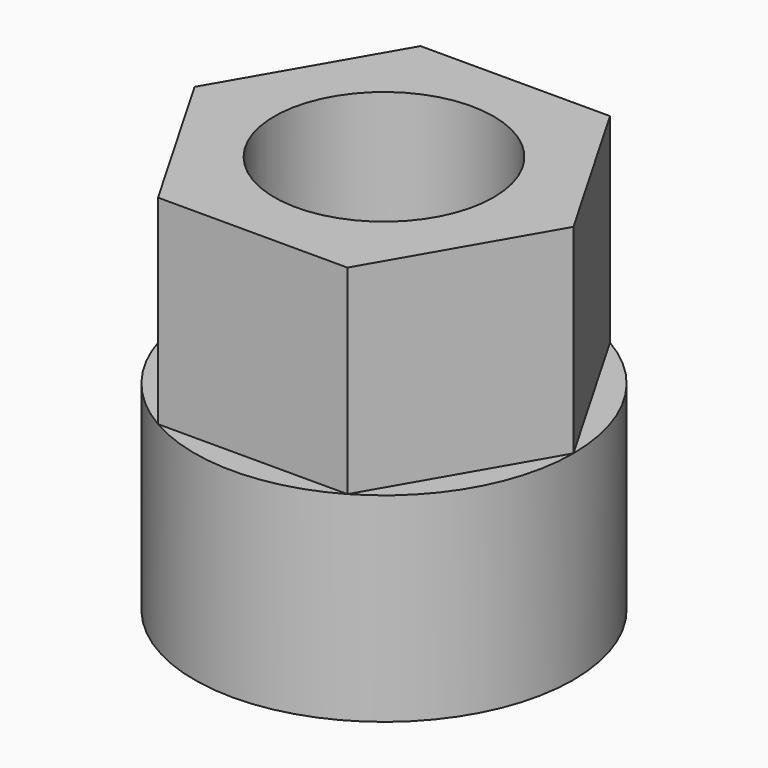
from build123d import *

# Parameters (mm, degrees)
F0_R     = 9.5
F0_R_2   = 0.7
F0_R_3   = 5.5
F1_DEPTH = 10
F2_DEPTH = 5
F3_R     = 0.7
F3_R_2   = 5.5
F4_DEPTH = 6
F5_R     = 0.7
F5_R_2   = 5.5
F6_DEPTH = 4


with BuildPart() as f1:
    # F0 (on Top) → F1 (new body)
    with BuildSketch(Plane.XY):
        Circle(F0_R)
        with Locations((-7.5, 0)):
            Circle(F0_R_2, mode=Mode.SUBTRACT)
        Circle(F0_R_3, mode=Mode.SUBTRACT)
        with Locations((7.5, 0)):
            Circle(F0_R_2, mode=Mode.SUBTRACT)
    extrude(amount=F1_DEPTH)

    # F0 (on Top) → F2 (cut)
    with BuildSketch(Plane.XY):
        Circle(F0_R_3)
    extrude(amount=F2_DEPTH, mode=Mode.SUBTRACT)

    # F3 (on face) → F4 (join)
    with BuildSketch(Plane.XY.offset(10)):
        Polygon((4.75, -8.227241336), (9.5, 0), (4.75, 8.227241336), (-4.75, 8.227241336), (-9.5, 0), (-4.75, -8.227241336), align=None)
        with Locations((-7.5, 0)):
            Circle(F3_R, mode=Mode.SUBTRACT)
        Circle(F3_R_2, mode=Mode.SUBTRACT)
        with Locations((7.5, 0)):
            Circle(F3_R, mode=Mode.SUBTRACT)
    extrude(amount=F4_DEPTH)

    # F5 (on face) → F6 (join)
    with BuildSketch(Plane.XY.offset(16)):
        Polygon((4.75, -8.227241336), (9.5, 0), (4.75, 8.227241336), (-4.75, 8.227241336), (-9.5, 0), (-4.75, -8.227241336), align=None)
        with Locations((-7.5, 0)):
            Circle(F5_R, mode=Mode.SUBTRACT)
        Circle(F5_R_2, mode=Mode.SUBTRACT)
        with Locations((7.5, 0)):
            Circle(F5_R, mode=Mode.SUBTRACT)
        with Locations((-7.5, 0)):
            Circle(F5_R)
        with Locations((7.5, 0)):
            Circle(F5_R)
    extrude(amount=F6_DEPTH)


solid = f1.part
